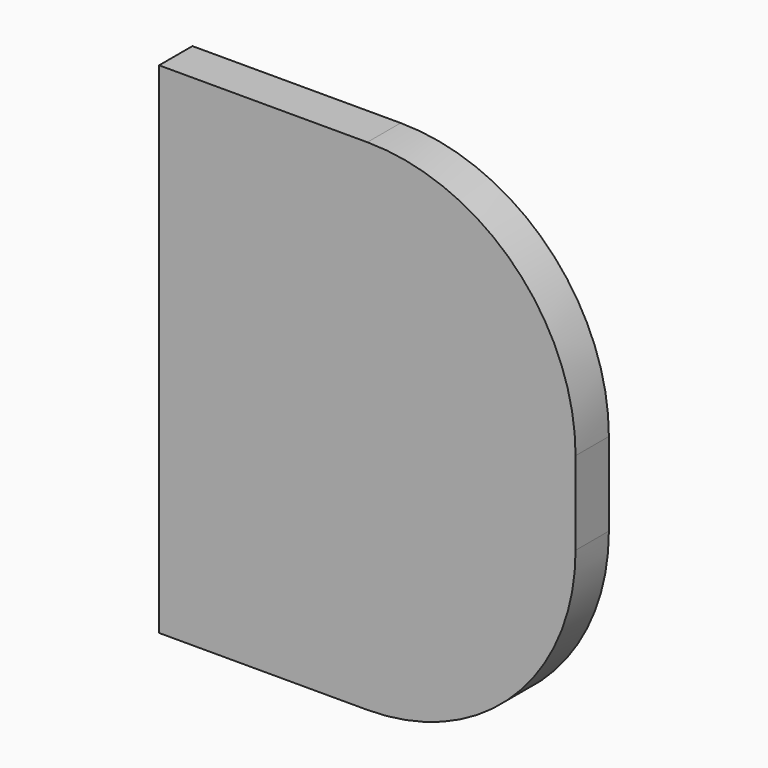
from build123d import *

# Parameters (mm, degrees)
BOX014_W     = 100
BOX014_H     = 10
BOX014_DEPTH = 120
FILLET_R     = 50
FILLET001_R  = 50


with BuildPart() as part:
    # Box014 → Box014 (new body)
    with BuildSketch(Plane(origin=(-10, -46, 0), x_dir=(1, 0, 0), z_dir=(0, 0, 1))):
        with Locations((50, 5)):
            Rectangle(BOX014_W, BOX014_H)
    extrude(amount=BOX014_DEPTH)

    # Fillet
    fillet_edges = [part.edges().sort_by_distance(p)[0] for p in [
        (90, -41, 0),
    ]]
    fillet(fillet_edges, radius=FILLET_R)

    # Fillet001
    fillet001_edges = [part.edges().sort_by_distance(p)[0] for p in [
        (90, -41, 120),
    ]]
    fillet(fillet001_edges, radius=FILLET001_R)


solid = part.part
